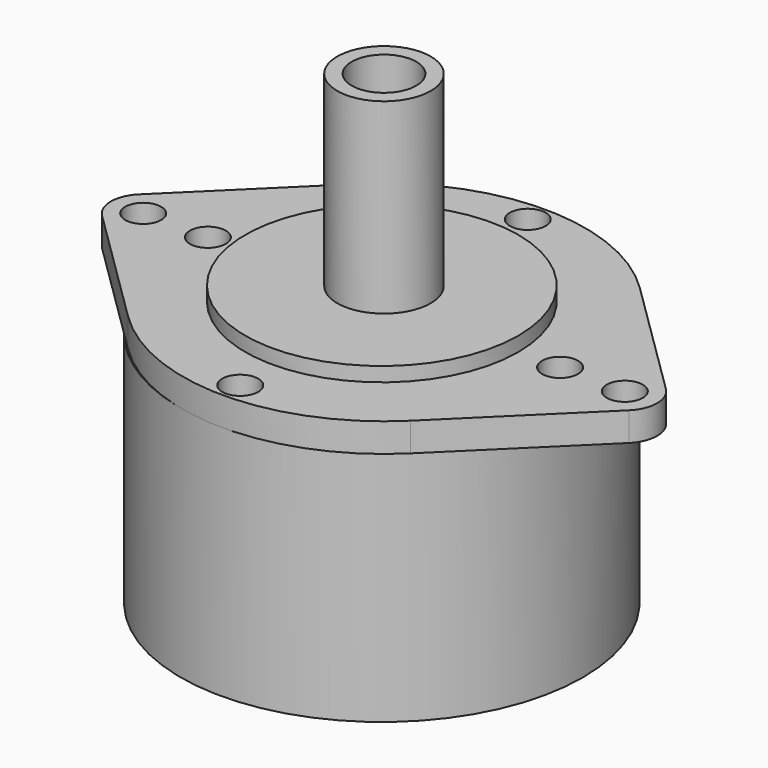
from build123d import *

# Parameters (mm, degrees)
SKETCH_R      = 2.5
PAD_DEPTH     = 2
SKETCH001_R   = 19
PAD001_DEPTH  = 2
SKETCH002_R   = 6.5
SKETCH002_R_2 = 4.5
PAD002_DEPTH  = 26
SKETCH003_R   = 28
PAD003_DEPTH  = 33


with BuildPart() as part:
    # Sketch → Pad (new body, symmetric)
    with BuildSketch(Plane.XY):
        with BuildLine():
            ThreePointArc((19.641791, 19.95495), (0, 28), (-19.641791, 19.95495))
            Line((-36.656716, 3.207046), (-19.641791, 19.95495))
            ThreePointArc((-36.656716, 3.207046), (-38, 0), (-36.656716, -3.207046))
            Line((-36.656716, -3.207046), (-19.641791, -19.95495))
            ThreePointArc((-19.641791, -19.95495), (0, -28), (19.641791, -19.95495))
            Line((36.656716, -3.207046), (19.641791, -19.95495))
            ThreePointArc((36.656716, -3.207046), (38, 0), (36.656716, 3.207046))
            Line((19.641791, 19.95495), (36.656716, 3.207046))
        make_face()
        with Locations((-33.5, 0)):
            Circle(SKETCH_R, mode=Mode.SUBTRACT)
        with Locations((33.5, 0)):
            Circle(SKETCH_R, mode=Mode.SUBTRACT)
        with Locations((24.5, 0)):
            Circle(SKETCH_R, mode=Mode.SUBTRACT)
        with Locations((-24.5, 0)):
            Circle(SKETCH_R, mode=Mode.SUBTRACT)
        with Locations((0, 25)):
            Circle(SKETCH_R, mode=Mode.SUBTRACT)
        with Locations((0, -25)):
            Circle(SKETCH_R, mode=Mode.SUBTRACT)
    extrude(amount=PAD_DEPTH, both=True)

    # Sketch001 → Pad001 (new body)
    with BuildSketch(Plane.XY.offset(2)):
        with Locations((-0.290907, -0.018148)):
            Circle(SKETCH001_R)
    extrude(amount=PAD001_DEPTH)

    # Sketch002 → Pad002 (new body)
    with BuildSketch(Plane.XY.offset(4)):
        Circle(SKETCH002_R)
        Circle(SKETCH002_R_2, mode=Mode.SUBTRACT)
    extrude(amount=PAD002_DEPTH)

    # Sketch003 → Pad003 (new body)
    with BuildSketch(Plane(origin=(0, 0, -2), x_dir=(1, 0, 0), z_dir=(0, 0, -1))):
        with Locations((-0.396294, -0.105837)):
            Circle(SKETCH003_R)
    extrude(amount=PAD003_DEPTH)


solid = part.part
